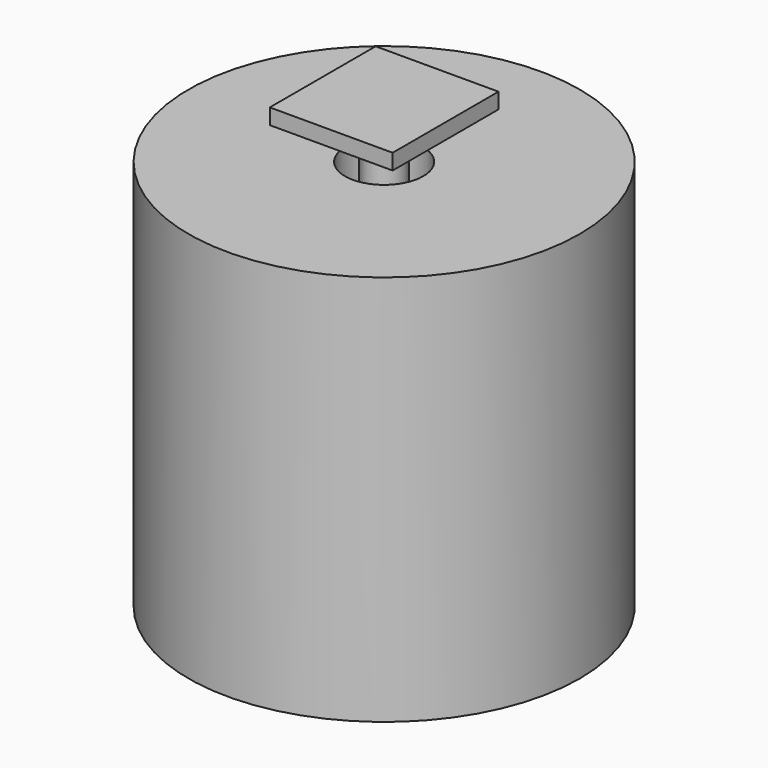
from build123d import *

# Parameters (mm, degrees)
F0_R     = 25
F1_DEPTH = 50
F3_R     = 5
F4_DEPTH = 25
F5_R     = 2.5
F6_DEPTH = 30
F7_W     = 15.6920365989
F7_H     = 16.9030595571
F7_R     = 2.5
F8_DEPTH = 2


with BuildPart() as f1:
    # F0 (on Top) → F1 (new body)
    with BuildSketch(Plane.XY):
        Circle(F0_R)
    extrude(amount=F1_DEPTH)

    # F3 (on offset) → F4 (cut, symmetric)
    with BuildSketch(Plane.XY.offset(25)):
        Circle(F3_R)
    extrude(amount=F4_DEPTH, both=True, mode=Mode.SUBTRACT)


with BuildPart() as f6:
    # F5 (on offset) → F6 (new body, symmetric)
    with BuildSketch(Plane.XY.offset(25)):
        Circle(F5_R)
    extrude(amount=F6_DEPTH, both=True)

    # F7 (on face) → F8 (join)
    with BuildSketch(Plane.XY.offset(55)):
        Rectangle(F7_W, F7_H)
        Circle(F7_R, mode=Mode.SUBTRACT)
        Circle(F7_R)
    extrude(amount=F8_DEPTH)

    # F9: F6 across plane


with BuildPart() as f6_1:
    add(f6.part)
    add(f6.part.mirror(Plane.XY.offset(25)))


solid = Compound([f1.part, f6_1.part])
